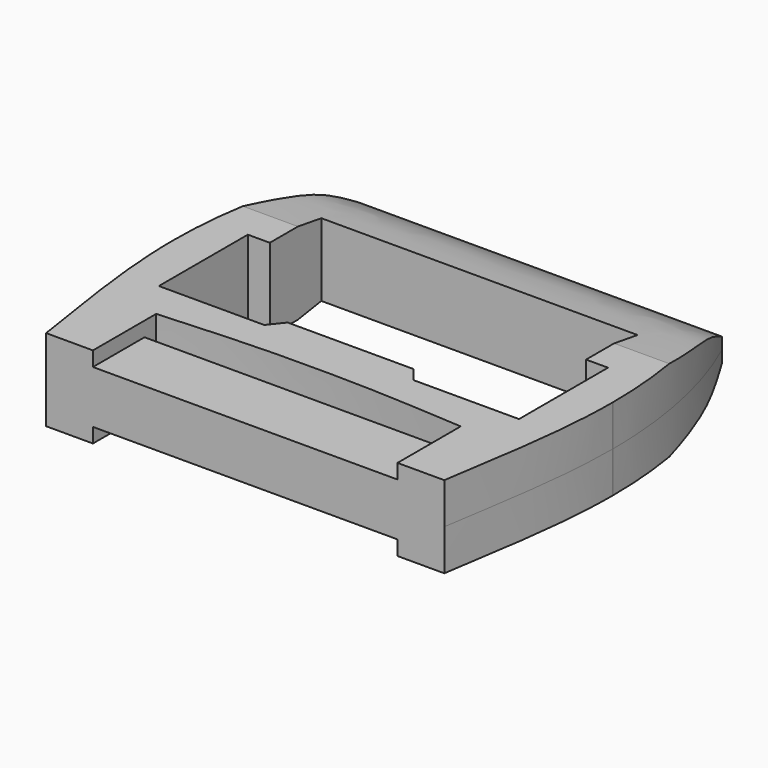
from build123d import *

# Parameters (mm, degrees)
F0_W      = 75
F0_H      = 63
F1_DEPTH  = 7
F3_DEPTH  = 25
F5_DEPTH  = 25
F7_W      = 52
F7_H      = 11
F8_DEPTH  = 2.5
F10_DEPTH = 80
F12_DEPTH = 25


with BuildPart() as f1:
    # F0 (on Top) → F1 (new body)
    with BuildSketch(Plane.XY):
        Rectangle(F0_W, F0_H)
    extrude(amount=F1_DEPTH)

    # F2 (on face) → F3 (cut)
    with BuildSketch(Plane.XY.offset(7)):
        Polygon((27, 18.5), (-27, 18.5), (-27, 7.5), (-30.75, 7.5), (-30.75, -11.5), (-12.75, -11.5), (-10.75, -9), (10.75, -9), (12.75, -11.5), (30.75, -11.5), (30.75, 7.5), (27, 7.5), align=None)
    extrude(amount=-F3_DEPTH, mode=Mode.SUBTRACT)

    # F4 (on face) → F5 (cut)
    with BuildSketch(Plane.XY.offset(7)):
        with BuildLine():
            Line((-26, -18), (-26, -20.5))
            Line((-26, -20.5), (26, -20.5))
            Line((26, -20.5), (26, -18))
            add(Edge.make_bspline(
                [(-26, -18), (-11, -17), (0, -17), (11, -17), (26, -18)],
                knots=[0, 0, 0, 0, 0.5, 1, 1, 1, 1], degree=3))
        make_face()
    extrude(amount=-F5_DEPTH, mode=Mode.SUBTRACT)

    # F7 (on face) → F8 (cut)
    with BuildSketch(Plane.XY.offset(7)):
        with Locations((0, -26)):
            Rectangle(F7_W, F7_H)
    extrude(amount=-F8_DEPTH, mode=Mode.SUBTRACT)

    # F9 (on face) → F10 (cut)
    with BuildSketch(Plane.YZ.offset(37.5)):
        with BuildLine():
            Line((-31.5, 11.1092058942), (-31.5, 7))
            Line((-31.5, 7), (13.5, 7))
            add(Edge.make_bspline(
                [(31.5, 2), (27.9249660671, 4.0678475052), (24.5989065318, 5.4442587825), (16.5555038096, 6.4860110295), (13.5, 7)],
                knots=[0, 0, 0, 0, 0.4750633648, 1, 1, 1, 1], degree=3))
            Line((31.5, 2), (31.5, 11.1092058942))
            Line((31.5, 11.1092058942), (-31.5, 11.1092058942))
        make_face()
    extrude(amount=-F10_DEPTH, mode=Mode.SUBTRACT)

    # F11 (on Top) → F12 (cut)
    with BuildSketch(Plane.XY):
        with BuildLine():
            add(Edge.make_bspline(
                [(-31, 31.5), (-35.5, 21.5), (-39.5000541268, 0.1581786089), (-35.5, -21.5), (-34, -31.5)],
                knots=[0, 0, 0, 0, 0.5018392613, 1, 1, 1, 1], degree=3))
            Line((-31, 31.5), (-43.3181733368, 37.5741338942))
            Line((-43.3181733368, 37.5741338942), (-41.833250428, -36.0357076911))
            Line((-41.833250428, -36.0357076911), (-34, -31.5))
        make_face()
        with BuildLine():
            Line((39.6972207541, 40.7548360527), (31.0000020678, 31.5))
            add(Edge.make_bspline(
                [(31.0000020678, 31.5), (35.5, 21.5), (39.5000541267, 0.1581784693), (35.5, -21.5), (34, -31.5)],
                knots=[0, 0, 0, 0, 0.5018392596, 1, 1, 1, 1], degree=3))
            Line((34, -31.5), (45.6182770431, -33.850427717))
            Line((45.6182770431, -33.850427717), (39.6972207541, 40.7548360527))
        make_face()
    extrude(amount=F12_DEPTH, mode=Mode.SUBTRACT)

    # F13: F1 across plane


with BuildPart() as f1_1:
    add(f1.part)
    add(f1.part.mirror(Plane.XY))


solid = f1_1.part
